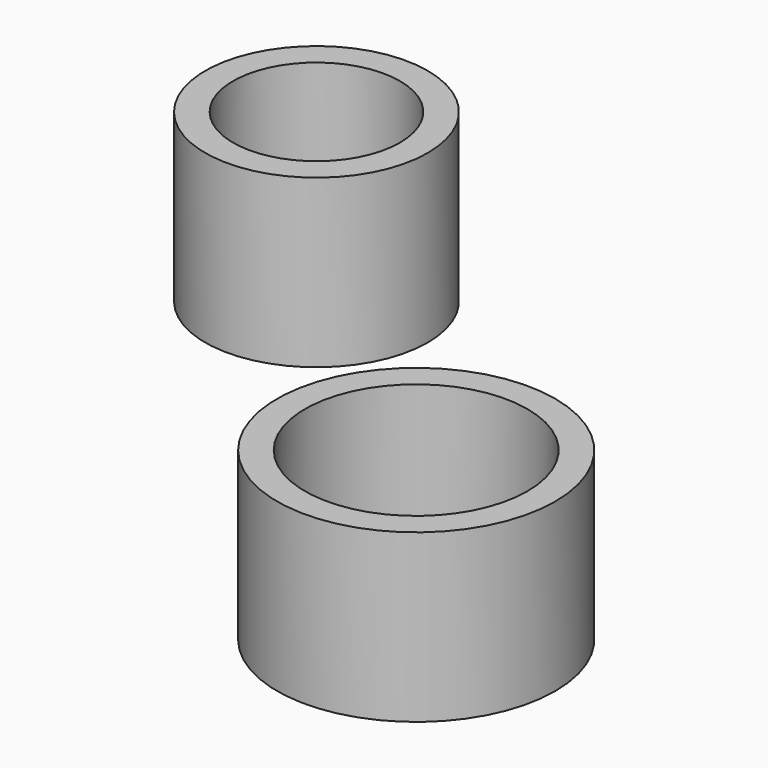
from build123d import *

# Parameters (mm, degrees)
F0_R     = 12.5
F0_R_2   = 10
F0_R_3   = 7.5
F1_DEPTH = 15


with BuildPart() as f1:
    # F0 (on Top) → F1 (new body)
    with BuildSketch(Plane.XY):
        Circle(F0_R)
        Circle(F0_R_2, mode=Mode.SUBTRACT)
        with Locations((-37.576482, 35.768416)):
            Circle(F0_R_2)
        with Locations((-37.576482, 35.768416)):
            Circle(F0_R_3, mode=Mode.SUBTRACT)
    extrude(amount=F1_DEPTH)


solid = f1.part
